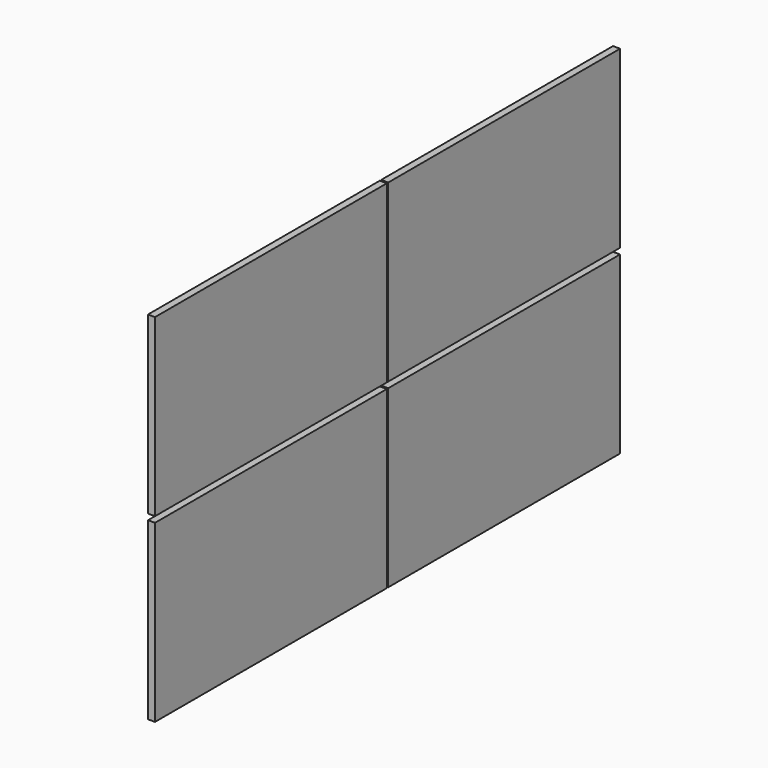
from build123d import *

# Parameters (mm, degrees)
CYLINDER003_R           = 4.5
CYLINDER003_DEPTH       = 10
CYLINDER003_PITCH_ANGLE = 90
CYLINDER002_R           = 4.5
CYLINDER002_DEPTH       = 10
CYLINDER002_PITCH_ANGLE = 90
CYLINDER001_R           = 4.5
CYLINDER001_DEPTH       = 10
CYLINDER001_PITCH_ANGLE = 90
CYLINDER_R              = 4.5
CYLINDER_DEPTH          = 10
CYLINDER_PITCH_ANGLE    = 90
SKETCH002_W             = 970
SKETCH002_H             = 1618
PAD002_DEPTH            = 27
SKETCH001_W             = 922
SKETCH001_H             = 1570
PAD001_DEPTH            = 20
SKETCH_W                = 992
SKETCH_H                = 1640
PAD_DEPTH               = 40
CUT003_ROLL_ANGLE       = 90
ARRAY_Y_COUNT           = 2
ARRAY_Y_PITCH           = 1650
ARRAY_Z_COUNT           = 2
ARRAY_Z_PITCH           = 1025


with BuildPart() as cylinder003:
    # Cylinder003 → Cylinder003 (new body)
    with BuildSketch(Plane.XY):
        Circle(CYLINDER003_R)
    extrude(amount=CYLINDER003_DEPTH)


with BuildPart() as cylinder003_1:
    # Cylinder003 pitch: moved
    add(cylinder003.part.rotate(Axis((0, 0, 0), (0, 1, 0)), CYLINDER003_PITCH_ANGLE))


with BuildPart() as cylinder003_2:
    # Cylinder003 placement: moved
    add(cylinder003_1.part.moved(Location((0, 25, 1220))))


with BuildPart() as fusion001:
    # Cylinder002 → Cylinder002 (new body)
    with BuildSketch(Plane.XY):
        Circle(CYLINDER002_R)
    extrude(amount=CYLINDER002_DEPTH)


with BuildPart() as fusion001_1:
    # Cylinder002 pitch: moved
    add(fusion001.part.rotate(Axis((0, 0, 0), (0, 1, 0)), CYLINDER002_PITCH_ANGLE))


with BuildPart() as fusion001_2:
    # Cylinder002 placement: moved
    add(fusion001_1.part.moved(Location((0, 25, 420))))

    # Fusion001: union Cylinder003
    add(cylinder003_2.part)


with BuildPart() as fusion001_3:
    # Fusion001 placement: moved
    add(fusion001_2.part.moved(Location((0, 942, 0))))


with BuildPart() as cylinder001:
    # Cylinder001 → Cylinder001 (new body)
    with BuildSketch(Plane.XY):
        Circle(CYLINDER001_R)
    extrude(amount=CYLINDER001_DEPTH)


with BuildPart() as cylinder001_1:
    # Cylinder001 pitch: moved
    add(cylinder001.part.rotate(Axis((0, 0, 0), (0, 1, 0)), CYLINDER001_PITCH_ANGLE))


with BuildPart() as cylinder001_2:
    # Cylinder001 placement: moved
    add(cylinder001_1.part.moved(Location((0, 25, 1220))))


with BuildPart() as fusion:
    # Cylinder → Cylinder (new body)
    with BuildSketch(Plane.XY):
        Circle(CYLINDER_R)
    extrude(amount=CYLINDER_DEPTH)


with BuildPart() as fusion_1:
    # Cylinder pitch: moved
    add(fusion.part.rotate(Axis((0, 0, 0), (0, 1, 0)), CYLINDER_PITCH_ANGLE))


with BuildPart() as fusion_2:
    # Cylinder placement: moved
    add(fusion_1.part.moved(Location((0, 25, 420))))

    # Fusion: union Cylinder001
    add(cylinder001_2.part)


with BuildPart() as obj1:
    # Sketch002 → Pad002 (new body)
    with BuildSketch(Plane.YZ.offset(3)):
        with Locations((496, 820)):
            Rectangle(SKETCH002_W, SKETCH002_H)
    extrude(amount=PAD002_DEPTH)


with BuildPart() as obj2:
    # Sketch001 → Pad001 (new body)
    with BuildSketch(Plane.YZ):
        with Locations((496, 820)):
            Rectangle(SKETCH001_W, SKETCH001_H)
    extrude(amount=PAD001_DEPTH)


with BuildPart() as obj3:
    # Sketch → Pad (new body)
    with BuildSketch(Plane.YZ):
        with Locations((496, 820)):
            Rectangle(SKETCH_W, SKETCH_H)
    extrude(amount=PAD_DEPTH)

    # Cut: cut obj2
    add(obj2.part, mode=Mode.SUBTRACT)

    # Cut001: cut obj1
    add(obj1.part, mode=Mode.SUBTRACT)

    # Cut002: cut Fusion
    add(fusion_2.part, mode=Mode.SUBTRACT)

    # Cut003: cut Fusion001
    add(fusion001_3.part, mode=Mode.SUBTRACT)


with BuildPart() as obj3_1:
    # Cut003 roll: moved
    add(obj3.part.rotate(Axis((0, 0, 0), (1, 0, 0)), CUT003_ROLL_ANGLE))


with BuildPart() as obj3_2:
    # Cut003 placement: moved
    add(obj3_1.part.moved(Location((0, -1305.59, 0))))

    # Array Y: obj3_2


with BuildPart() as obj3_3:
    add(obj3_2.part)
    with Locations(*[(0, i * ARRAY_Y_PITCH, 0) for i in range(1, ARRAY_Y_COUNT)]):
        add(obj3_2.part)

    # Array Z: obj3_2


with BuildPart() as obj3_4:
    add(obj3_3.part)
    with Locations(*[(0, 0, i * ARRAY_Z_PITCH) for i in range(1, ARRAY_Z_COUNT)]):
        add(obj3_3.part)


with BuildPart() as obj3_5:
    # Array placement: moved
    add(obj3_4.part.moved(Location((47.5, 2923.09, 483))))


solid = obj3_5.part
